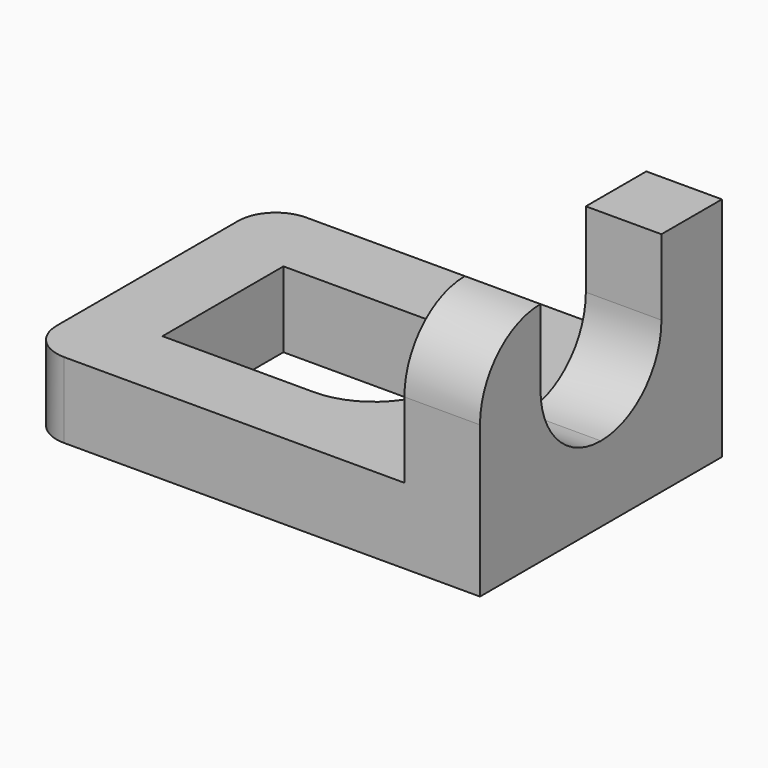
from build123d import *

# Parameters (mm, degrees)
F0_W     = 6
F0_H     = 4
F1_DEPTH = 1
F2_R     = 0.5
F3_W     = 1
F3_H     = 4
F4_DEPTH = 2
F5_R     = 1
F7_DEPTH = 25


with BuildPart() as f1:
    # F0 (on Top) → F1 (new body)
    with BuildSketch(Plane.XY):
        with Locations((3, 2)):
            Rectangle(F0_W, F0_H)
        with BuildLine():
            Line((3, 1), (1, 1))
            Line((1, 1), (1, 3))
            Line((1, 3), (3, 3))
            ThreePointArc((3, 3), (4, 2), (3, 1))
        make_face(mode=Mode.SUBTRACT)
    extrude(amount=F1_DEPTH)

    # F2
    f2_edges = [f1.edges().sort_by_distance(p)[0] for p in [
        (0, 0, 0.5),
        (0, 4, 0.5),
    ]]
    fillet(f2_edges, radius=F2_R)

    # F3 (on face) → F4 (join)
    with BuildSketch(Plane.XY.offset(1)):
        with Locations((5.5, 2)):
            Rectangle(F3_W, F3_H)
    extrude(amount=F4_DEPTH)

    # F5
    f5_edges = [f1.edges().sort_by_distance(p)[0] for p in [
        (5.5, 0, 3),
    ]]
    fillet(f5_edges, radius=F5_R)

    # F6 (on face) → F7 (cut)
    with BuildSketch(Plane(origin=(5, 0, 0), x_dir=(0, -1, 0), z_dir=(-1, 0, 0))):
        with BuildLine():
            Line((-1, 3), (-3, 3))
            Line((-3, 3), (-3, 2))
            ThreePointArc((-3, 2), (-2.7071067812, 1.2928932188), (-2, 1))
            ThreePointArc((-2, 1), (-1.2928932188, 1.2928932188), (-1, 2))
            Line((-1, 2), (-1, 3))
        make_face()
    extrude(amount=-F7_DEPTH, mode=Mode.SUBTRACT)


solid = f1.part
